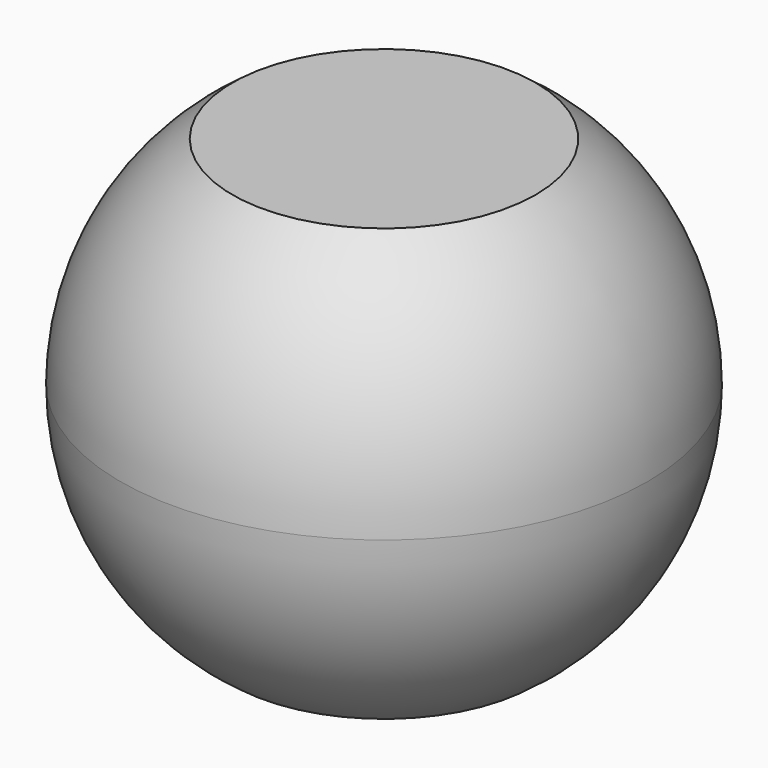
from build123d import *


with BuildPart() as f1:
    # F0 (on Front) → F1 (revolve)
    with BuildSketch(Plane.XZ):
        with BuildLine():
            Line((15.8113883008, 22.5), (0, 22.5))
            Line((0, 22.5), (0, -22.5))
            Line((0, -22.5), (15.8113883008, -22.5))
            ThreePointArc((15.8113883008, -22.5), (24.4035159175, -12.677476518), (27.5, 0))
            ThreePointArc((27.5, 0), (24.4035159175, 12.677476518), (15.8113883008, 22.5))
        make_face()
    revolve(axis=Axis((0, 0, 0.9608182426), (0, 0, -1)))

    # F2 (on Front) → F3 (revolve, cut)
    with BuildSketch(Plane.XZ):
        with BuildLine():
            Line((12.5, 7.5), (0, 7.5))
            Line((0, 7.5), (0, -7.5))
            Line((0, -7.5), (12.5, -7.5))
            ThreePointArc((12.5, -7.5), (17.8033008589, -5.3033008589), (20, 0))
            ThreePointArc((20, 0), (17.8033008589, 5.3033008589), (12.5, 7.5))
        make_face()
    revolve(axis=Axis((0, 0, -3.6558974534), (0, 0, -1)), mode=Mode.SUBTRACT)


solid = f1.part
